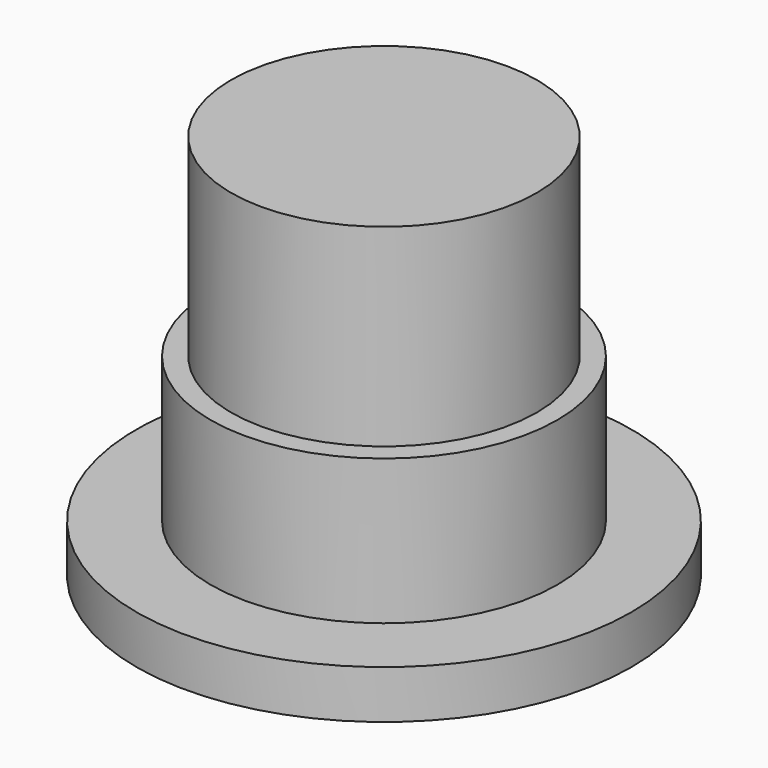
from build123d import *

# Parameters (mm, degrees)
F0_R     = 65.020167
F1_DEPTH = 12.7
F2_R     = 45.541471
F3_DEPTH = 38.1
F4_R     = 40.172853
F5_DEPTH = 50.8
F6_R     = 38.1
F7_DEPTH = 77.709325


with BuildPart() as f1:
    # F0 (on Top) → F1 (new body)
    with BuildSketch(Plane.XY):
        Circle(F0_R)
    extrude(amount=F1_DEPTH)

    # F2 (on face) → F3 (join)
    with BuildSketch(Plane.XY.offset(12.7)):
        Circle(F2_R)
    extrude(amount=F3_DEPTH)

    # F4 (on face) → F5 (join)
    with BuildSketch(Plane.XY.offset(50.8)):
        Circle(F4_R)
    extrude(amount=F5_DEPTH)

    # F6 (on face) → F7 (cut)
    with BuildSketch(Plane(origin=(0, 0, 0), x_dir=(1, 0, 0), z_dir=(0, 0, -1))):
        Circle(F6_R)
    extrude(amount=-F7_DEPTH, mode=Mode.SUBTRACT)


solid = f1.part
